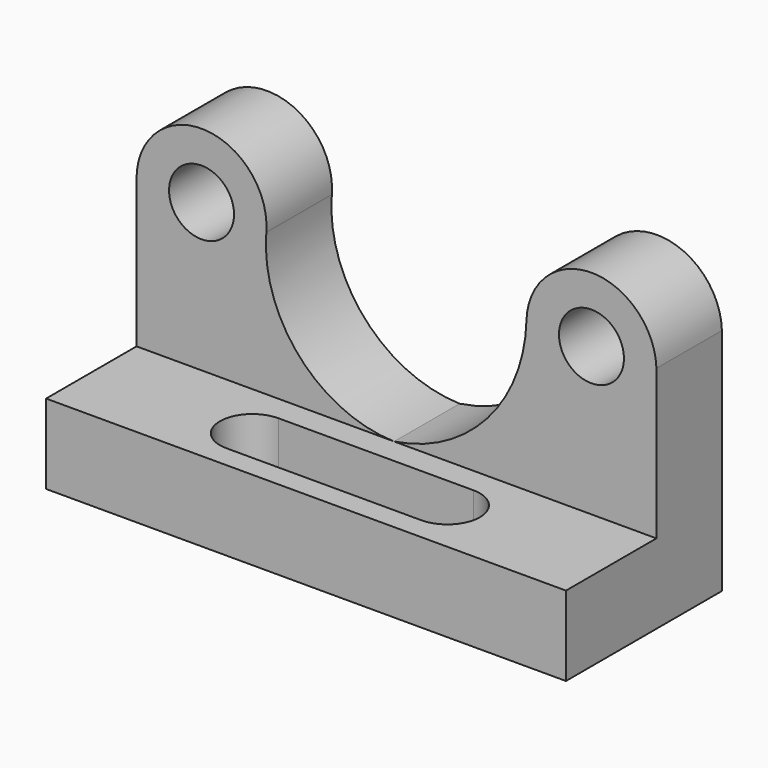
from build123d import *

# Parameters (mm, degrees)
F0_R     = 6.35
F1_DEPTH = 16.002
F2_DEPTH = 38.1
F4_DEPTH = 25.4


with BuildPart() as f1:
    # F0 (on Front) → F1 (new body)
    with BuildSketch(Plane.XZ):
        with BuildLine():
            Line((-109.882609, 44.45), (-109.882609, 15.558309))
            Line((-109.882609, 15.558309), (-59.544396, 15.558309))
            ThreePointArc((-59.544396, 15.558309), (-78.025435, 24.116231), (-84.524632, 43.417714))
            ThreePointArc((-84.524632, 43.417714), (-96.666039, 57.13949), (-109.882609, 44.45))
        make_face()
        with Locations((-97.182609, 44.45)):
            Circle(F0_R, mode=Mode.SUBTRACT)
        with BuildLine():
            Line((-59.544396, 15.558309), (-8.287901, 15.558309))
            Line((-8.287901, 15.558309), (-8.287901, 44.816575))
            ThreePointArc((-8.287901, 44.816575), (-20.982609, 57.15), (-33.677318, 44.816575))
            ThreePointArc((-33.677318, 44.816575), (-41.311473, 25.502285), (-59.544396, 15.558309))
        make_face()
        with Locations((-20.982609, 44.45)):
            Circle(F0_R, mode=Mode.SUBTRACT)
    extrude(amount=F1_DEPTH)

    # F0 (on Front) → F2 (join)
    with BuildSketch(Plane.XZ):
        Polygon((-109.882609, 15.558309), (-109.882609, 0), (-8.287901, 0), (-8.287901, 15.558309), (-59.544396, 15.558309), align=None)
    extrude(amount=F2_DEPTH)

    # F3 (on face) → F4 (cut)
    with BuildSketch(Plane.XY.offset(15.558309)):
        with BuildLine():
            Line((-40.037901, -21.03122), (-78.137901, -21.03122))
            ThreePointArc((-78.137901, -21.03122), (-84.487901, -27.38122), (-78.137901, -33.73122))
            Line((-78.137901, -33.73122), (-40.037901, -33.73122))
            ThreePointArc((-40.037901, -33.73122), (-33.687901, -27.38122), (-40.037901, -21.03122))
        make_face()
    extrude(amount=-F4_DEPTH, mode=Mode.SUBTRACT)


solid = f1.part
